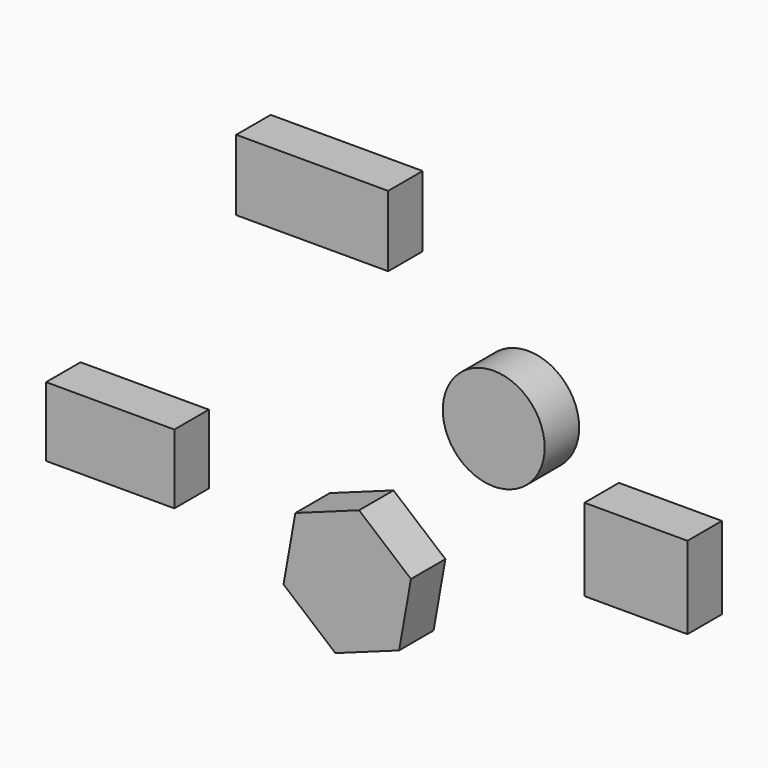
from build123d import *

# Parameters (mm, degrees)
F0_W     = 59.787556
F0_H     = 47.727292
F0_W_2   = 74.457943
F0_H_2   = 40.290097
F0_W_3   = 88.187784
F0_H_3   = 41.079268
F0_R     = 29.57195
F1_DEPTH = 25


with BuildPart() as f1:
    # F0 (on Front) → F1 (new body)
    with BuildSketch(Plane.XZ):
        with Locations((-107.877545, 37.2567)):
            Rectangle(F0_W, F0_H)
        with Locations((-413.016736, 0.973942)):
            Rectangle(F0_W_2, F0_H_2)
        with Locations((-295.785084, 162.872903)):
            Rectangle(F0_W_3, F0_H_3)
        with Locations((-190.435007, 81.861973)):
            Circle(F0_R)
        Polygon((-268.581096, 14.730557), (-305.562731, 1.315775), (-312.436007, -37.41865), (-282.327648, -62.738295), (-245.346014, -49.323513), (-238.472738, -10.589088), align=None)
    extrude(amount=F1_DEPTH)


solid = f1.part
